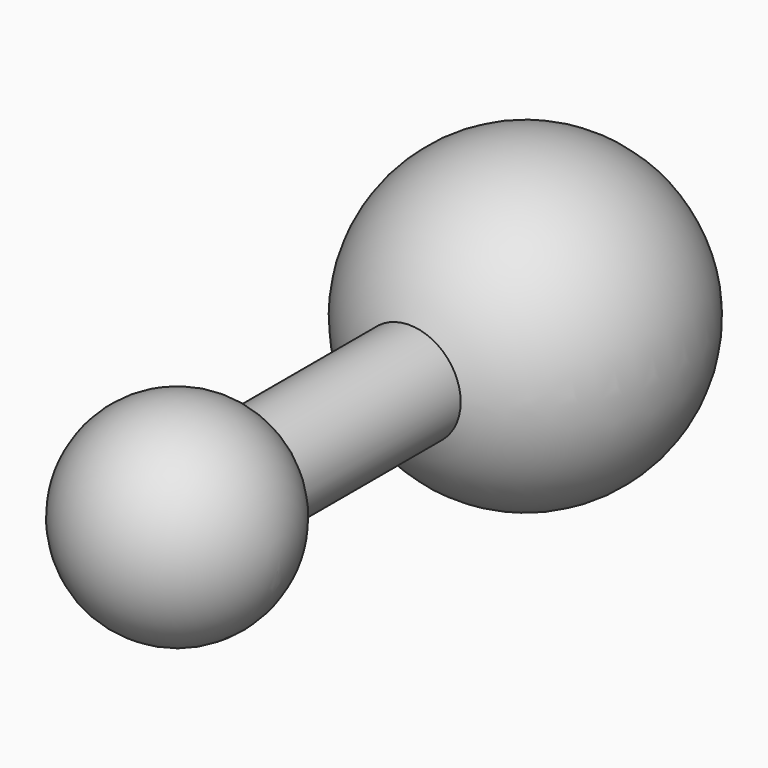
from build123d import *

# Parameters (mm, degrees)
F2_R     = 12.7
F3_DEPTH = 101.6


with BuildPart() as f1:
    # F0 (on Top) → F1 (revolve)
    with BuildSketch(Plane.XY):
        with BuildLine():
            Line((0, 0), (0, -38.1))
            ThreePointArc((0, -38.1), (38.1, 0), (0, 38.1))
            Line((0, 38.1), (0, 0))
        make_face()
    revolve(axis=Axis((0, 0, 0), (0, 1, 0)))

    # F2 (on Front) → F3 (join)
    with BuildSketch(Plane.XZ):
        Circle(F2_R)
    extrude(amount=F3_DEPTH)

    # F5 (on offset) → F6 (revolve)
    with BuildSketch(Plane.XZ.offset(107.95)):
        with BuildLine():
            Line((0, 0), (-25.4, 0))
            ThreePointArc((-25.4, 0), (0, -25.4), (25.4, 0))
            Line((25.4, 0), (0, 0))
        make_face()
    revolve(axis=Axis((0, -107.95, 0), (1, 0, 0)))


solid = f1.part
